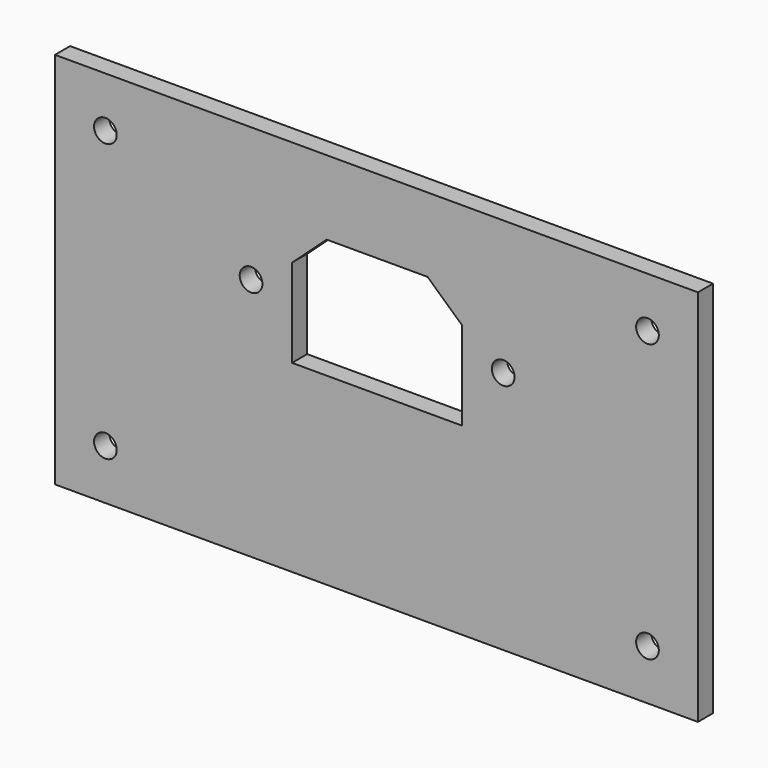
from build123d import *

# Parameters (mm, degrees)
SKETCH003_R                = 1.8
EXTRUDE002_DEPTH           = 10
EXTRUDE002_PLACEMENT_ANGLE = 90
CYLINDER002_R              = 1.8
CYLINDER002_DEPTH          = 200
ARRAY_X_COUNT              = 2
ARRAY_X_PITCH              = 86
ARRAY_Z_COUNT              = 2
ARRAY_Z_PITCH              = 44
BOX008_W                   = 102
BOX008_H                   = 3
BOX008_DEPTH               = 60


with BuildPart() as power_input_extrude:
    # Sketch003 → Extrude002 (new body)
    with BuildSketch(Plane.XY):
        with Locations((39.109962, 21.410699)):
            Circle(SKETCH003_R)
        with Locations((79.109962, 21.410699)):
            Circle(SKETCH003_R)
        Polygon((45.609962, 11.910699), (45.609962, 25.910699), (51.109962, 30.910699), (67.109962, 30.910699), (72.609962, 25.910699), (72.609962, 11.910699), align=None)
    extrude(amount=-EXTRUDE002_DEPTH)


with BuildPart() as power_input_extrude_1:
    # Extrude002 placement: moved
    add(power_input_extrude.part.moved(Location((-59, 180, 17.3))).rotate(Axis((-59, 180, 17.3), (1, 0, 0)), EXTRUDE002_PLACEMENT_ANGLE))


with BuildPart() as back_wall_hole_fusion:
    # Cylinder002 → Cylinder002 (new body)
    with BuildSketch(Plane(origin=(-43, 200, 8), x_dir=(1, 0, 0), z_dir=(0, -1, 0))):
        Circle(CYLINDER002_R)
    extrude(amount=CYLINDER002_DEPTH)

    # Array X: back wall hole fusion ×2


with BuildPart() as back_wall_hole_fusion_1:
    add(back_wall_hole_fusion.part)
    with Locations(*[(i * ARRAY_X_PITCH, 0, 0) for i in range(1, ARRAY_X_COUNT)]):
        add(back_wall_hole_fusion.part)

    # Array Z: back wall hole fusion ×2


with BuildPart() as back_wall_hole_fusion_2:
    add(back_wall_hole_fusion_1.part)
    with Locations(*[(0, 0, i * ARRAY_Z_PITCH) for i in range(1, ARRAY_Z_COUNT)]):
        add(back_wall_hole_fusion_1.part)

    # Fusion006: union power input extrude
    add(power_input_extrude_1.part)


with BuildPart() as back_wall_cut:
    # Box008 → Box008 (new body)
    with BuildSketch(Plane(origin=(-51, 183, 0), x_dir=(1, 0, 0), z_dir=(0, 0, 1))):
        with Locations((51, 1.5)):
            Rectangle(BOX008_W, BOX008_H)
    extrude(amount=BOX008_DEPTH)

    # Cut009: cut back wall hole fusion
    add(back_wall_hole_fusion_2.part, mode=Mode.SUBTRACT)


solid = back_wall_cut.part
